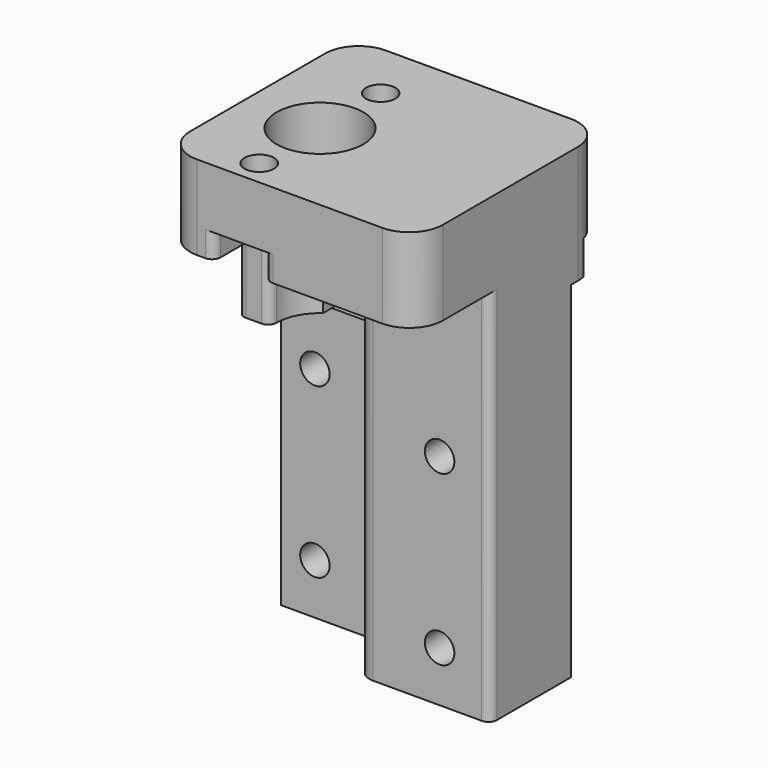
from build123d import *

# Parameters (mm, degrees)
PAD001_DEPTH      = 16
PAD001_DEPTH_BACK = 16
SKETCH014_W       = 15
SKETCH014_H       = 6
POCKET_DEPTH      = 28.001
SKETCH012_R       = 5.15
POCKET001_DEPTH   = 55.001
SKETCH013_R       = 1.75
POCKET002_DEPTH   = 7
SKETCH008_W       = 7.407674
SKETCH008_H       = 16
POCKET003_DEPTH   = 33
SKETCH007_R       = 1.75
POCKET004_DEPTH   = 17.001
SKETCH015_W       = 50.47
SKETCH015_H       = 40
POCKET005_DEPTH   = 2
SKETCH016_W       = 51.98
SKETCH016_H       = 14.53
POCKET006_DEPTH   = 55.001
FILLET_R          = 4
FILLET001_R       = 1
FILLET002_R       = 2
FILLET003_R       = 1
FILLET004_R       = 1
FILLET005_R       = 1
FILLET006_R       = 1


with BuildPart() as part:
    # Sketch005 → Pad001 (new body, two sides)
    with BuildSketch(Plane.YZ) as pad001_sk:
        Polygon((0, -20), (0, 25), (3, 25), (3, 35), (-25, 35), (-25, 25), (-14, 25), (-14, -20), align=None)
    extrude(amount=PAD001_DEPTH)
    extrude(pad001_sk.sketch, amount=-PAD001_DEPTH_BACK)

    # Sketch014 (on Face5 of Pad001) → Pocket (cut, through all)
    with BuildSketch(Plane(origin=(0, -25, 0), x_dir=(0, 0, -1), z_dir=(0, -1, 0))):
        with Locations((-20.5, -5)):
            Rectangle(SKETCH014_W, SKETCH014_H)
    extrude(amount=-POCKET_DEPTH, mode=Mode.SUBTRACT)

    # Sketch012 → Pocket001 (cut, through all)
    with BuildSketch(Plane(origin=(0, 0, 35), x_dir=(0, -1, 0), z_dir=(0, 0, 1))):
        with Locations((13, -5)):
            Circle(SKETCH012_R)
    extrude(amount=-POCKET001_DEPTH, mode=Mode.SUBTRACT)

    # Sketch013 → Pocket002 (cut)
    with BuildSketch(Plane(origin=(0, 0, 35), x_dir=(0, -1, 0), z_dir=(0, 0, 1))):
        with Locations((4, -5)):
            Circle(SKETCH013_R)
        with Locations((22, -5)):
            Circle(SKETCH013_R)
    extrude(amount=-POCKET002_DEPTH, mode=Mode.SUBTRACT)

    # Sketch008 (on Face9 of Pocket002) → Pocket003 (cut)
    with BuildSketch(Plane.YX.offset(20)):
        with Locations((-11.203837, -8)):
            Rectangle(SKETCH008_W, SKETCH008_H)
    extrude(amount=-POCKET003_DEPTH, mode=Mode.SUBTRACT)

    # Sketch007 (on Face21 of Pocket003) → Pocket004 (cut, through all)
    with BuildSketch(Plane(origin=(0, -14, 0), x_dir=(0, 0, -1), z_dir=(0, -1, 0))):
        with Locations((-6, 10)):
            Circle(SKETCH007_R)
        with Locations((14, 10)):
            Circle(SKETCH007_R)
        with Locations((-6, -10)):
            Circle(SKETCH007_R)
        with Locations((14, -10)):
            Circle(SKETCH007_R)
    extrude(amount=-POCKET004_DEPTH, mode=Mode.SUBTRACT)

    # Sketch015 (on Face1 of Pocket004) → Pocket005 (cut)
    with BuildSketch(Plane.ZX):
        with Locations((-4.235, 0)):
            Rectangle(SKETCH015_W, SKETCH015_H)
    extrude(amount=-POCKET005_DEPTH, mode=Mode.SUBTRACT)

    # Sketch016 (on Face11 of Pocket005) → Pocket006 (cut, through all)
    with BuildSketch(Plane(origin=(0, 0, 35), x_dir=(0, -1, 0), z_dir=(0, 0, 1))):
        with Locations((19.41, -21.265)):
            Rectangle(SKETCH016_W, SKETCH016_H)
    extrude(amount=-POCKET006_DEPTH, mode=Mode.SUBTRACT)

    # Fillet
    fillet_edges = [part.edges().sort_by_distance(p)[0] for p in [
        (16, -25, 30),
        (-14, -25, 30),
        (16, 3, 30),
        (-14, 3, 30),
    ]]
    fillet(fillet_edges, radius=FILLET_R)

    # Fillet001
    fillet001_edges = [part.edges().sort_by_distance(p)[0] for p in [
        (-2, -25, 26.5),
        (-8, -25, 26.5),
    ]]
    fillet(fillet001_edges, radius=FILLET001_R)

    # Fillet002
    fillet002_edges = [part.edges().sort_by_distance(p)[0] for p in [
        (0.05198, -14, 2.5),
    ]]
    fillet(fillet002_edges, radius=FILLET002_R)

    # Fillet003
    fillet003_edges = [part.edges().sort_by_distance(p)[0] for p in [
        (-14, -14, 19),
        (-10.05198, -14, 19),
    ]]
    fillet(fillet003_edges, radius=FILLET003_R)

    # Fillet004
    fillet004_edges = [part.edges().sort_by_distance(p)[0] for p in [
        (-2, 3, 26.5),
        (-8, 3, 26.5),
    ]]
    fillet(fillet004_edges, radius=FILLET004_R)

    # Fillet005
    fillet005_edges = [part.edges().sort_by_distance(p)[0] for p in [
        (-8, 0, 23),
        (-2, 0, 23),
    ]]
    fillet(fillet005_edges, radius=FILLET005_R)

    # Fillet006
    fillet006_edges = [part.edges().sort_by_distance(p)[0] for p in [
        (16, -14, 2.5),
    ]]
    fillet(fillet006_edges, radius=FILLET006_R)


solid = part.part
